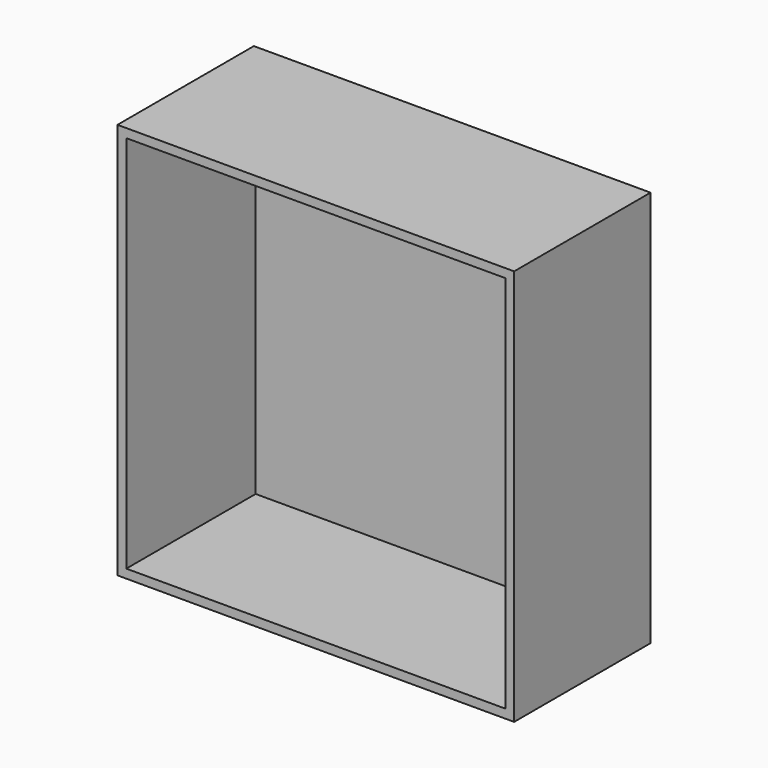
from build123d import *

# Parameters (mm, degrees)
F0_W     = 569.99886
F0_H     = 569.99886
F1_DEPTH = 122.500009
F2_T     = -12.7


with BuildPart() as f1:
    # F0 (on Front) → F1 (new body, symmetric)
    with BuildSketch(Plane.XZ):
        Rectangle(F0_W, F0_H)
    extrude(amount=F1_DEPTH, both=True)

    # F2
    f2_openings = [f1.faces().sort_by_distance(p)[0] for p in [
        (0, -122.500009, 0),
    ]]
    offset(amount=F2_T, openings=f2_openings)


solid = f1.part
